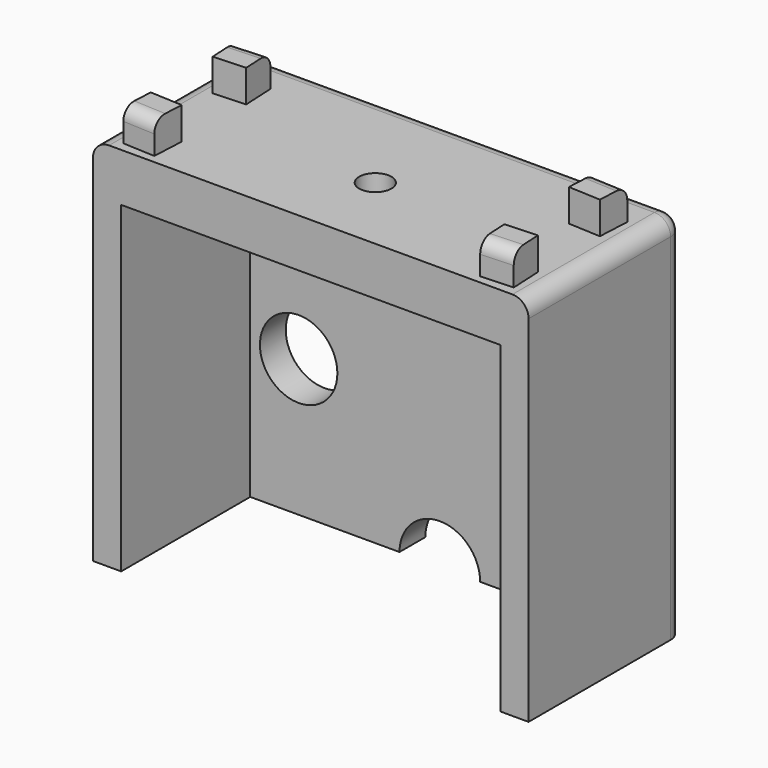
from build123d import *

# Parameters (mm, degrees)
BOX_W           = 27
BOX_H           = 12
BOX_DEPTH       = 23
SKETCH_W        = 23.5
SKETCH_H        = 20
POCKET_DEPTH    = 10
SKETCH002_R     = 1
POCKET001_DEPTH = 3.001
SKETCH003_R     = 2
POCKET002_DEPTH = 1.5
SKETCH004_R     = 2.4
POCKET003_DEPTH = 2.001
POCKET004_DEPTH = 2.001
PAD_DEPTH       = 2
FILLET_R        = 1
FILLET001_R     = 0.8


with BuildPart() as part:
    # Box → Box (new body)
    with BuildSketch(Plane.XY):
        with Locations((13.5, 6)):
            Rectangle(BOX_W, BOX_H)
    extrude(amount=BOX_DEPTH)

    # Sketch (on Face3 of BaseFeature) → Pocket (cut)
    with BuildSketch(Plane.XZ):
        with Locations((13.5, 10)):
            Rectangle(SKETCH_W, SKETCH_H)
    extrude(amount=-POCKET_DEPTH, mode=Mode.SUBTRACT)

    # Sketch002 (on Face7 of Pocket) → Pocket001 (cut, through all)
    with BuildSketch(Plane(origin=(0, 0, 20), x_dir=(1, 0, 0), z_dir=(0, 0, -1))):
        with Locations((13.5, -5)):
            Circle(SKETCH002_R)
    extrude(amount=-POCKET001_DEPTH, mode=Mode.SUBTRACT)

    # Sketch003 (on Face7 of Pocket001) → Pocket002 (cut)
    with BuildSketch(Plane(origin=(0, 0, 20), x_dir=(1, 0, 0), z_dir=(0, 0, -1))):
        with Locations((13.5, -5)):
            Circle(SKETCH003_R)
    extrude(amount=-POCKET002_DEPTH, mode=Mode.SUBTRACT)

    # Sketch004 (on Face11 of Pocket002) → Pocket003 (cut, through all)
    with BuildSketch(Plane.XZ.offset(-10)):
        with Locations((4.75, 8.5)):
            Circle(SKETCH004_R)
        with Locations((22.25, 8.5)):
            Circle(SKETCH004_R)
    extrude(amount=-POCKET003_DEPTH, mode=Mode.SUBTRACT)

    # Sketch005 (on Face13 of Pocket003) → Pocket004 (cut, through all)
    with BuildSketch(Plane.XZ.offset(-10)):
        with BuildLine():
            ThreePointArc((16, 0), (13.5, 2.5), (11, 0))
            Line((11, 0), (16, 0))
        make_face()
    extrude(amount=-POCKET004_DEPTH, mode=Mode.SUBTRACT)

    # Sketch006 (on Face3 of Pocket004) → Pad (join)
    with BuildSketch(Plane.XY.offset(23)):
        Polygon((3.4, 9.497498), (1.402502, 9.397498), (1.502502, 7.4), (3.5, 7.5), align=None)
        Polygon((1.502502, 2.6), (3.5, 2.5), (3.4, 0.502502), (1.402502, 0.602502), align=None)
        Polygon((23.5, 2.5), (25.497498, 2.6), (25.597498, 0.602502), (23.6, 0.502502), align=None)
        Polygon((23.6, 9.497498), (25.597498, 9.397498), (25.497498, 7.4), (23.5, 7.5), align=None)
    extrude(amount=PAD_DEPTH)

    # Fillet
    fillet_edges = [part.edges().sort_by_distance(p)[0] for p in [
        (27, 6, 23),
        (27, 12, 11.5),
        (13.5, 12, 23),
        (0, 12, 11.5),
        (0, 6, 23),
    ]]
    fillet(fillet_edges, radius=FILLET_R)

    # Fillet001
    fillet001_edges = [part.edges().sort_by_distance(p)[0] for p in [
        (2.401251, 9.447498, 25),
        (2.401251, 0.552502, 25),
        (24.598749, 9.447498, 25),
        (24.598749, 0.552502, 25),
    ]]
    fillet(fillet001_edges, radius=FILLET001_R)


solid = part.part
